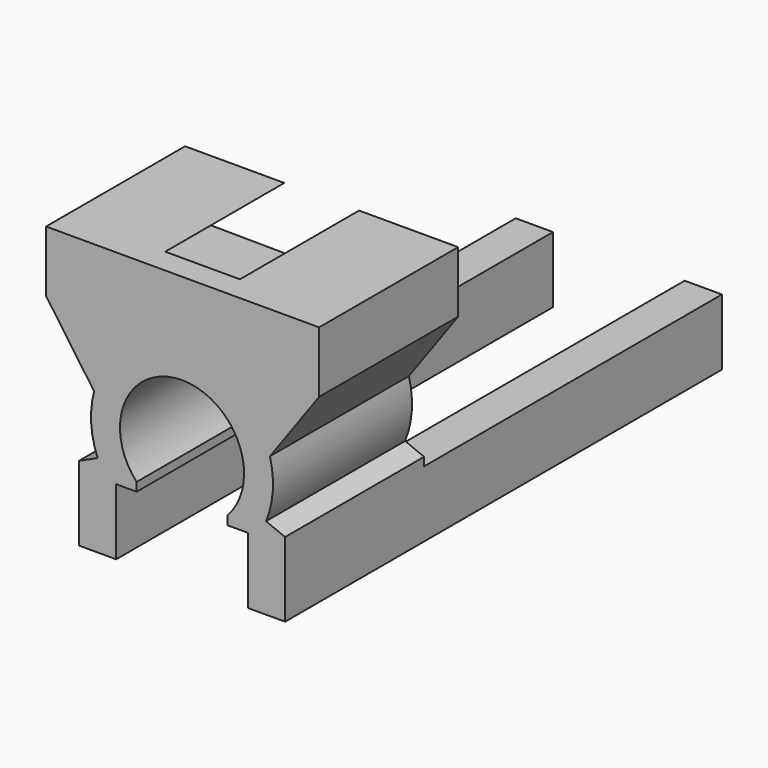
from build123d import *

# Parameters (mm, degrees)
F1_DEPTH = 7
F2_DEPTH = 6
F3_DEPTH = 15


with BuildPart() as f1:
    # F0 (on Front) → F1 (new body)
    with BuildSketch(Plane.XZ):
        with BuildLine():
            ThreePointArc((-3.477884, 0.719832), (-3.596369, -0.44229), (-3.343322, -1.5827))
            Line((-3.343322, -1.5827), (-3.322458, -1.593981))
            Line((-3.322458, -1.593981), (-3.322458, -2.283465))
            Line((-3.322458, -2.283465), (-2.589551, -2.283465))
            Line((-2.589551, -2.283465), (-1.76338, -2.283465))
            Line((-1.76338, -2.283465), (-1.76338, -1.934508))
            ThreePointArc((-1.76338, -1.934508), (0.063946, 2.271621), (1.891273, -1.934508))
            Line((1.891273, -1.934508), (1.891273, -2.283465))
            Line((1.891273, -2.283465), (2.717444, -2.283465))
            Line((2.717444, -2.283465), (3.450351, -2.283465))
            Line((3.450351, -2.283465), (3.450351, -1.634055))
            ThreePointArc((3.450351, -1.634055), (3.72254, -0.469953), (3.605777, 0.719832))
            ThreePointArc((3.605777, 0.719832), (2.307299, 2.6718), (0.091662, 3.438077))
            ThreePointArc((0.091662, 3.438077), (-2.157419, 2.688675), (-3.477884, 0.719832))
        make_face()
        Polygon((-3.322458, -2.283465), (-3.322458, -1.593981), (-4.089551, -1.943924), (-4.089551, -2.283465), align=None)
        with BuildLine():
            Line((-5.413338, 3.472093), (-3.477884, 0.719832))
            ThreePointArc((-3.477884, 0.719832), (-2.157419, 2.688675), (0.091662, 3.438077))
            Line((0.091662, 3.438077), (-4.408209, 3.472093))
            Line((-4.408209, 3.472093), (-1.413338, 5.938077))
            Line((-1.413338, 5.938077), (-5.413338, 5.938077))
            Line((-5.413338, 5.938077), (-5.413338, 3.472093))
        make_face()
        Polygon((-2.589551, -2.283465), (-3.322458, -2.283465), (-4.089551, -2.283465), (-4.089551, -4.949721), (-3.322458, -4.949721), (-2.589551, -4.949721), align=None)
        with BuildLine():
            Line((4.591534, 3.404061), (0.091662, 3.438077))
            ThreePointArc((0.091662, 3.438077), (2.307299, 2.6718), (3.605777, 0.719832))
            Line((3.605777, 0.719832), (5.587751, 3.472093))
            Line((5.587751, 3.472093), (5.587751, 5.938077))
            Line((5.587751, 5.938077), (1.596662, 5.938077))
            Line((1.596662, 5.938077), (4.591534, 3.404061))
        make_face()
        Polygon((-4.408209, 3.472093), (0.091662, 3.438077), (4.591534, 3.404061), (1.596662, 5.938077), (-1.413338, 5.938077), align=None)
        Polygon((4.217444, -1.943924), (3.450351, -1.634055), (3.450351, -2.283465), (4.217444, -2.283465), align=None)
        Polygon((4.217444, -2.283465), (3.450351, -2.283465), (2.717444, -2.283465), (2.717444, -4.949721), (3.450351, -4.949721), (4.217444, -4.949721), align=None)
    extrude(amount=F1_DEPTH)

    # F0 (on Front) → F2 (cut)
    with BuildSketch(Plane.XZ):
        Polygon((-4.408209, 3.472093), (0.091662, 3.438077), (4.591534, 3.404061), (1.596662, 5.938077), (-1.413338, 5.938077), align=None)
    extrude(amount=F2_DEPTH, mode=Mode.SUBTRACT)

    # F0 (on Front) → F3 (join)
    with BuildSketch(Plane.XZ):
        Polygon((4.217444, -2.283465), (3.450351, -2.283465), (2.717444, -2.283465), (2.717444, -4.949721), (3.450351, -4.949721), (4.217444, -4.949721), align=None)
        Polygon((-2.589551, -2.283465), (-3.322458, -2.283465), (-4.089551, -2.283465), (-4.089551, -4.949721), (-3.322458, -4.949721), (-2.589551, -4.949721), align=None)
    extrude(amount=-F3_DEPTH)


solid = f1.part
